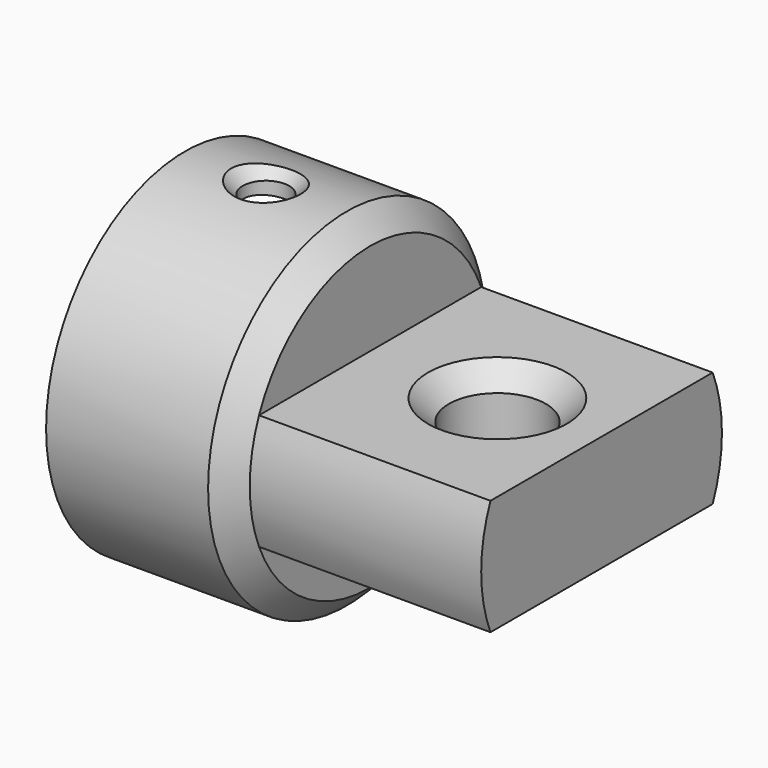
from build123d import *

# Parameters (mm, degrees)
F0_R            = 7.5
F1_DEPTH        = 8
F2_T            = -1
F3_SIZE         = 1
F5_DEPTH        = 10
F8_D            = 4.2
F8_DEPTH        = 2.5
F8_CSINK_D      = 6
F8_CSINK_ANGLE  = 90
F11_D           = 4.2
F11_DEPTH       = 2.5
F11_CSINK_D     = 6
F11_CSINK_ANGLE = 90
F15_D           = 2
F15_DEPTH       = 2.5
F15_CSINK_D     = 3
F15_CSINK_ANGLE = 90


with BuildPart() as f1:
    # F0 (on Right) → F1 (new body)
    with BuildSketch(Plane.YZ):
        Circle(F0_R)
    extrude(amount=F1_DEPTH)

    # F2
    f2_openings = [f1.faces().sort_by_distance(p)[0] for p in [
        (0, 0, 0),
    ]]
    offset(amount=F2_T, openings=f2_openings)

    # F3
    f3_edges = [f1.edges().sort_by_distance(p)[0] for p in [
        (8, -7.5, 0),
    ]]
    chamfer(f3_edges, length=F3_SIZE)

    # F4 (on face) → F5 (join)
    with BuildSketch(Plane.YZ.offset(8)):
        with BuildLine():
            Line((-6, -2.5), (0, -2.5))
            Line((0, -2.5), (6, -2.5))
            ThreePointArc((6, -2.5), (6.5, 0), (6, 2.5))
            Line((6, 2.5), (0, 2.5))
            Line((0, 2.5), (-6, 2.5))
            ThreePointArc((-6, 2.5), (-6.5, 0), (-6, -2.5))
        make_face()
    extrude(amount=F5_DEPTH)

    # F8
    with Locations(Plane.XY.offset(2.5)):
        with Locations((13.5, 0)):
            CounterSinkHole(F8_D / 2, F8_CSINK_D / 2, depth=F8_DEPTH, counter_sink_angle=F8_CSINK_ANGLE)

    # F11
    with Locations(Plane(origin=(0, 0, -2.5), x_dir=(1, 0, 0), z_dir=(0, 0, -1))):
        with Locations((13.5, 0)):
            CounterSinkHole(F11_D / 2, F11_CSINK_D / 2, depth=F11_DEPTH, counter_sink_angle=F11_CSINK_ANGLE)

    # F15
    with Locations(Plane.XY.offset(7.5)):
        with Locations((3.5, 0)):
            CounterSinkHole(F15_D / 2, F15_CSINK_D / 2, depth=F15_DEPTH, counter_sink_angle=F15_CSINK_ANGLE)


solid = f1.part
